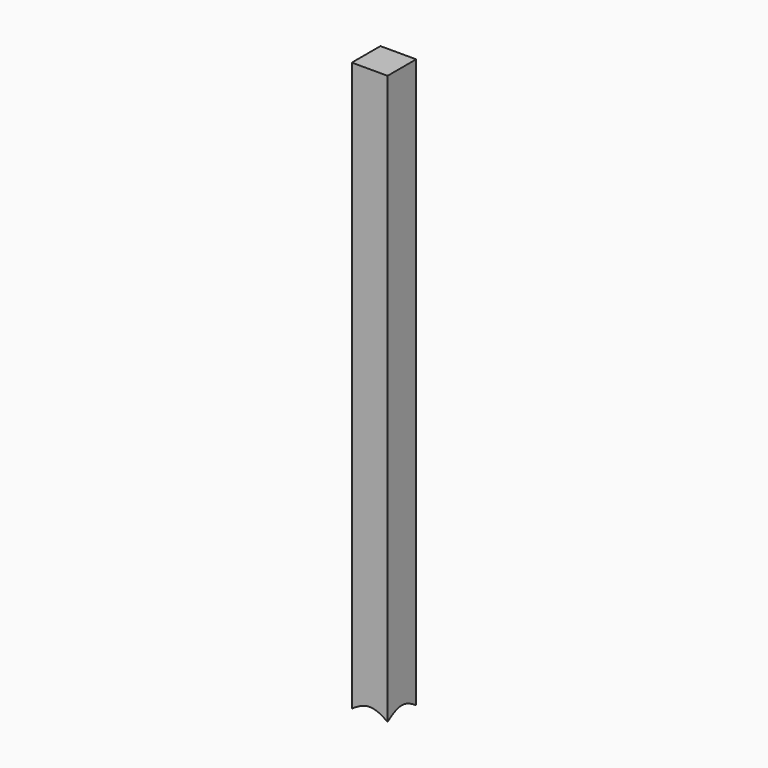
from build123d import *

# Parameters (mm, degrees)
F0_W     = 6.25
F0_H     = 6.25
F1_DEPTH = 100


with BuildPart() as f1:
    # F0 (on Top) → F1 (new body)
    with BuildSketch(Plane.XY):
        Rectangle(F0_W, F0_H)
    extrude(amount=F1_DEPTH)

    # F2 (on Front) → F3 (revolve, cut)
    with BuildSketch(Plane.XZ):
        Polygon((25, -20), (0, 5), (0, -20), align=None)
    revolve(axis=Axis((0, 0, -7.5), (0, 0, -1)), mode=Mode.SUBTRACT)


solid = f1.part
